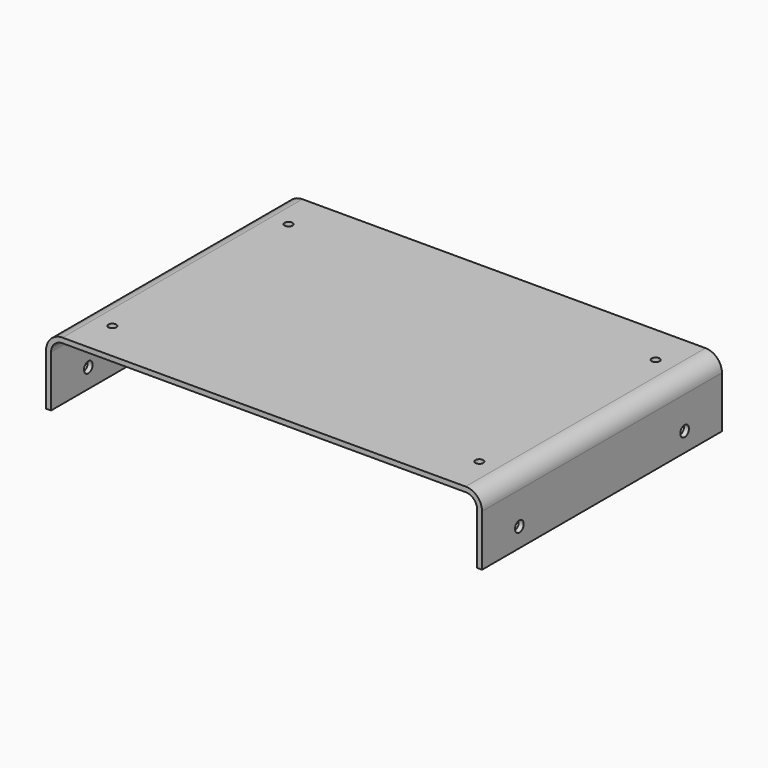
from build123d import *

# Parameters (mm, degrees)
F1_DEPTH = 124.46
F3_D     = 4.4958
F5_D     = 3.2639


with BuildPart() as f1:
    # F0 (on Front) → F1 (new body)
    with BuildSketch(Plane.XZ):
        with BuildLine():
            Line((0, 21.3614), (0, 0))
            Line((0, 0), (2.0574, 0))
            Line((2.0574, 0), (2.0574, 21.3614))
            ThreePointArc((2.0574, 21.3614), (3.4560236985, 24.7379763015), (6.8326, 26.1366))
            Line((6.8326, 26.1366), (174.1424, 26.1366))
            ThreePointArc((174.1424, 26.1366), (177.5189763015, 24.7379763015), (178.9176, 21.3614))
            Line((178.9176, 21.3614), (178.9176, 0))
            Line((178.9176, 0), (180.975, 0))
            Line((180.975, 0), (180.975, 21.3614))
            ThreePointArc((180.975, 21.3614), (178.9737777931, 26.1927777931), (174.1424, 28.194))
            Line((174.1424, 28.194), (6.8326, 28.194))
            ThreePointArc((6.8326, 28.194), (2.0012222069, 26.1927777931), (0, 21.3614))
        make_face()
    extrude(amount=-F1_DEPTH)

    # F3 (through all)
    with Locations(Plane.YZ.offset(180.975)):
        with Locations((19.3675, 7.9502), (105.0925, 7.9502)):
            Hole(F3_D / 2)

    # F5 (through all)
    with Locations(Plane(origin=(0, 0, 26.1366), x_dir=(1, 0, 0), z_dir=(0, 0, -1))):
        with Locations((14.2875, -16.51), (14.2875, -107.95), (166.6875, -16.51), (166.6875, -107.95)):
            Hole(F5_D / 2)


solid = f1.part
